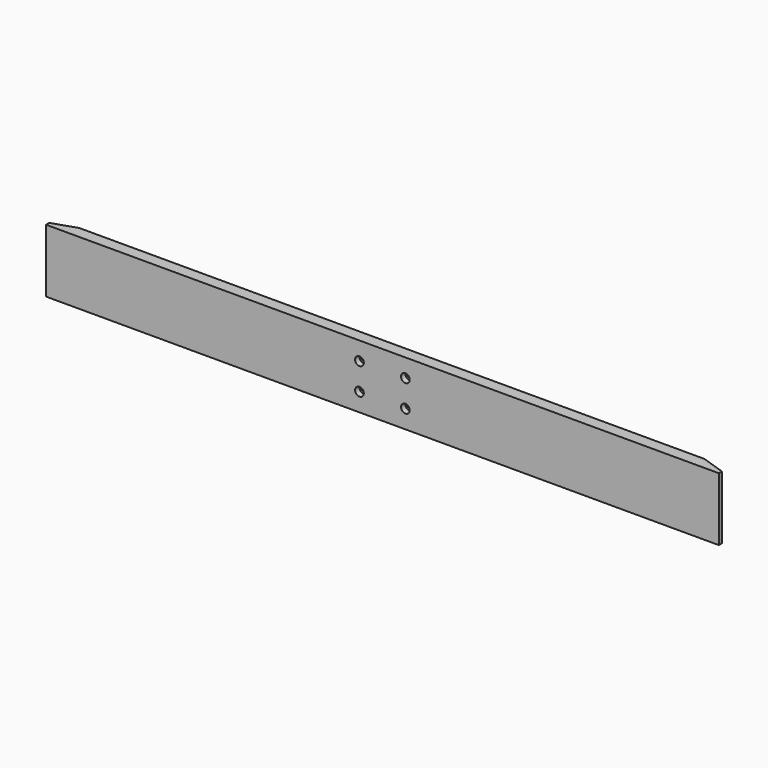
from build123d import *

# Parameters (mm, degrees)
F0_W           = 850
F0_H           = 80
F1_DEPTH       = 7.5
F3_D           = 6
F3_CBORE_D     = 11
F3_CBORE_DEPTH = 7
F4_D           = 0.1
F6_DEPTH       = 80.001


with BuildPart() as f1:
    # F0 (on Front) → F1 (new body, symmetric)
    with BuildSketch(Plane.XZ):
        Rectangle(F0_W, F0_H)
    extrude(amount=F1_DEPTH, both=True)

    # F3 (through all)
    with Locations(Plane.XZ.offset(7.5)):
        with Locations((-29, 17), (29, 17), (29, -17), (-29, -17)):
            CounterBoreHole(F3_D / 2, F3_CBORE_D / 2, F3_CBORE_DEPTH)

    # F4 (through all)
    with Locations(Plane.XZ.offset(7.5)):
        with Locations((0, 0)):
            Hole(F4_D / 2)

    # F5 (on face) → F6 (cut, through all)
    with BuildSketch(Plane.XY.offset(40)):
        Polygon((-395, 7.5), (-425, 7.5), (-425, -2.5), align=None)
        Polygon((425, 7.5), (395, 7.5), (425, -2.5), align=None)
    extrude(amount=-F6_DEPTH, mode=Mode.SUBTRACT)


solid = f1.part
